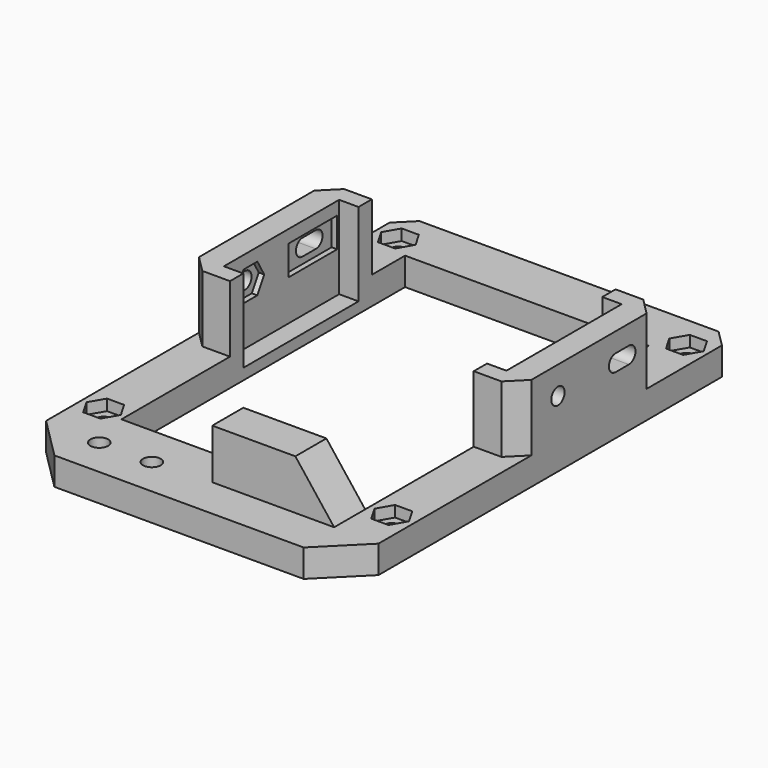
from build123d import *

# Parameters (mm, degrees)
SKETCH021_W  = 22
SKETCH021_H  = 12.704962
PAD014_DEPTH = 10
SKETCH020_R  = 2.5
PAD013_DEPTH = 2
SKETCH015_R  = 1.5
PAD008_DEPTH = 60
SKETCH019_R  = 1.6
PAD012_DEPTH = 5
PAD005_DEPTH = 2
SKETCH018_W  = 11
SKETCH018_H  = 5.369358
PAD011_DEPTH = 26.5
SKETCH022_W  = 21.583895
SKETCH022_H  = 15.194446
PAD015_DEPTH = 60
SKETCH010_R  = 6
PAD003_DEPTH = 3
SKETCH009_W  = 30
SKETCH009_H  = 9
PAD002_DEPTH = 80.5
SKETCH008_R  = 1.4
PAD001_DEPTH = 14
SKETCH013_W  = 3.5
SKETCH013_H  = 26
PAD006_DEPTH = 3
SKETCH_W     = 44
SKETCH_H     = 64
PAD_DEPTH    = 14
PAD007_DEPTH = 12
CHAMFER_SIZE = 3


with BuildPart() as pad014:
    # Sketch021 → Pad014 (new body)
    with BuildSketch(Plane.XZ.offset(-81)):
        with Locations((41, 11.352481)):
            Rectangle(SKETCH021_W, SKETCH021_H)
    extrude(amount=PAD014_DEPTH)


with BuildPart() as obj1:
    # Sketch020 → Pad013 (new body)
    with BuildSketch(Plane.XY):
        with Locations((10, -0.5)):
            Circle(SKETCH020_R)
        with Locations((19.5, -0.5)):
            Circle(SKETCH020_R)
    extrude(amount=PAD013_DEPTH)


with BuildPart() as obj2:
    # Sketch015 → Pad008 (new body)
    with BuildSketch(Plane.YZ):
        with Locations((40.5, 12)):
            Circle(SKETCH015_R)
        with BuildLine():
            ThreePointArc((53.5, 13.5), (52, 12), (53.5, 10.5))
            Line((53.5, 10.5), (56.5, 10.5))
            ThreePointArc((56.5, 10.5), (58, 12), (56.5, 13.5))
            Line((53.5, 13.5), (56.5, 13.5))
        make_face()
    extrude(amount=PAD008_DEPTH)


with BuildPart() as endstopmount:
    # Sketch019 → Pad012 (new body)
    with BuildSketch(Plane.XY):
        with Locations((10, -0.5)):
            Circle(SKETCH019_R)
        with Locations((19.5, -0.5)):
            Circle(SKETCH019_R)
    extrude(amount=PAD012_DEPTH)


with BuildPart() as obj3:
    # Sketch006 → Pad005 (new body)
    with BuildSketch(Plane(origin=(0, -9.25, 3), x_dir=(1, 0, 0), z_dir=(0, 0, 1))):
        Polygon((5.55, 86.434679), (2.45, 86.434679), (0.9, 83.75), (2.45, 81.065321), (5.55, 81.065321), (7.1, 83.75), align=None)
        Polygon((57.55, 81.065321), (59.1, 83.75), (57.55, 86.434679), (54.45, 86.434679), (52.9, 83.75), (54.45, 81.065321), align=None)
        Polygon((0.9, 17.25), (2.45, 14.565321), (5.55, 14.565321), (7.1, 17.25), (5.55, 19.934679), (2.45, 19.934679), align=None)
        Polygon((52.9, 17.25), (54.45, 14.565321), (57.55, 14.565321), (59.1, 17.25), (57.55, 19.934679), (54.45, 19.934679), align=None)
    extrude(amount=PAD005_DEPTH)


with BuildPart() as obj4:
    # Sketch018 → Pad011 (new body, symmetric)
    with BuildSketch(Plane.YZ.offset(30)):
        Polygon((42.05, 9.315321), (43.6, 12), (42.05, 14.684679), (38.95, 14.684679), (37.4, 12), (38.95, 9.315321), align=None)
        with Locations((54.55, 12)):
            Rectangle(SKETCH018_W, SKETCH018_H)
    extrude(amount=PAD011_DEPTH, both=True)


with BuildPart() as cutblock02:
    # Sketch022 → Pad015 (new body)
    with BuildSketch(Plane.YZ):
        with Locations((-10.791947, 12.597223)):
            Rectangle(SKETCH022_W, SKETCH022_H)
    extrude(amount=PAD015_DEPTH)

    # Fusion002: union Pad014, obj1, obj2, EndstopMount, obj3, obj4
    add(pad014.part)
    add(obj1.part)
    add(obj2.part)
    add(endstopmount.part)
    add(obj3.part)
    add(obj4.part)


with BuildPart() as springhole:
    # Sketch010 → Pad003 (new body)
    with BuildSketch(Plane.XZ.offset(-7)):
        with Locations((40.5, 7)):
            Circle(SKETCH010_R)
    extrude(amount=PAD003_DEPTH)


with BuildPart() as profile:
    # Sketch009 → Pad002 (new body)
    with BuildSketch(Plane.XZ):
        with Locations((15, 9.5)):
            Rectangle(SKETCH009_W, SKETCH009_H)
        Polygon((52, 5), (45, 14), (60, 14), (60, 5), align=None)
    extrude(amount=-PAD002_DEPTH)


with BuildPart() as mounthole:
    # Sketch008 → Pad001 (new body)
    with BuildSketch(Plane.XY):
        with Locations((4, 8)):
            Circle(SKETCH008_R)
        with Locations((56, 8)):
            Circle(SKETCH008_R)
        with Locations((4, 74.5)):
            Circle(SKETCH008_R)
        with Locations((56, 74.5)):
            Circle(SKETCH008_R)
    extrude(amount=PAD001_DEPTH)


with BuildPart() as cutblocks:
    # Sketch013 → Pad006 (new body)
    with BuildSketch(Plane.XY.offset(5)):
        with Locations((6.25, 47.5)):
            Rectangle(SKETCH013_W, SKETCH013_H)
        with Locations((53.75, 47.5)):
            Rectangle(SKETCH013_W, SKETCH013_H)
    extrude(amount=-PAD006_DEPTH)

    # Fusion001: union SpringHole, Profile, MountHole
    add(springhole.part)
    add(profile.part)
    add(mounthole.part)


with BuildPart() as cut:
    # Sketch → Pad (new body)
    with BuildSketch(Plane.XY):
        Polygon((60, 80.5), (60, 0), (52.5, -7.5), (7.5, -7.5), (0, 0), (0, 80.5), align=None)
        with Locations((30, 39)):
            Rectangle(SKETCH_W, SKETCH_H, mode=Mode.SUBTRACT)
    extrude(amount=PAD_DEPTH)

    # Cut: cut CutBlocks
    add(cutblocks.part, mode=Mode.SUBTRACT)


with BuildPart() as chamfer_body:
    # Sketch014 → Pad007 (new body)
    with BuildSketch(Plane.XY.offset(5)):
        Polygon((4.5, 60.5), (4.5, 34.5), (8, 34.5), (8, 31.5), (0, 31.5), (0, 63.5), (8, 63.5), (8, 60.5), align=None)
        Polygon((55.5, 60.5), (55.5, 34.5), (52, 34.5), (52, 31.5), (60, 31.5), (60, 63.5), (52, 63.5), (52, 60.5), align=None)
    extrude(amount=PAD007_DEPTH)

    # Fusion: union Cut
    add(cut.part)

    # Cut001: cut CutBlock02
    add(cutblock02.part, mode=Mode.SUBTRACT)

    # Chamfer
    chamfer_edges = [chamfer_body.edges().sort_by_distance(p)[0] for p in [
        (0, 80.5, 2.5),
        (0, 63.5, 11),
        (60, 63.5, 11),
        (60, 80.5, 2.5),
        (0, 31.5, 11),
        (60, 31.5, 11),
    ]]
    chamfer(chamfer_edges, length=CHAMFER_SIZE)


solid = chamfer_body.part
